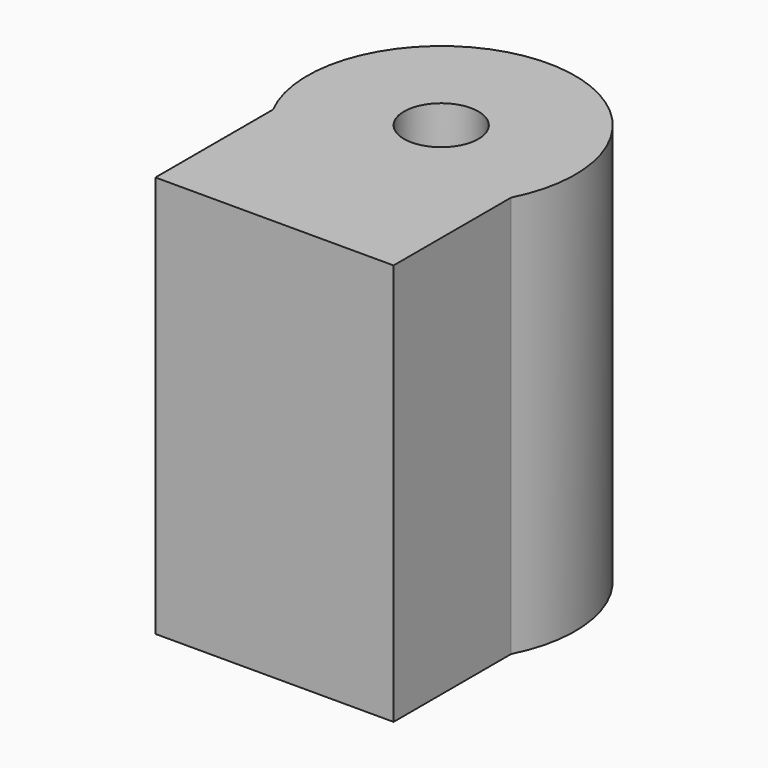
from build123d import *

# Parameters (mm, degrees)
F1_DEPTH = 42.8625


with BuildPart() as f1:
    # F0 (on Top) → F1 (new body, symmetric)
    with BuildSketch(Plane.XY):
        with BuildLine():
            Line((25.4, -44.45), (25.4, -13.0908603613))
            ThreePointArc((25.4, -13.0908603613), (0, 28.575), (-25.4, -13.0908603613))
            Line((-25.4, -13.0908603613), (-25.4, -44.45))
            Line((-25.4, -44.45), (25.4, -44.45))
        make_face()
        with BuildLine():
            ThreePointArc((0, -7.9375), (-5.6126600757, 5.6126600757), (7.9375, 0))
            ThreePointArc((7.9375, 0), (5.6126600757, -5.6126600757), (0, -7.9375))
        make_face(mode=Mode.SUBTRACT)
    extrude(amount=F1_DEPTH, both=True)


solid = f1.part
